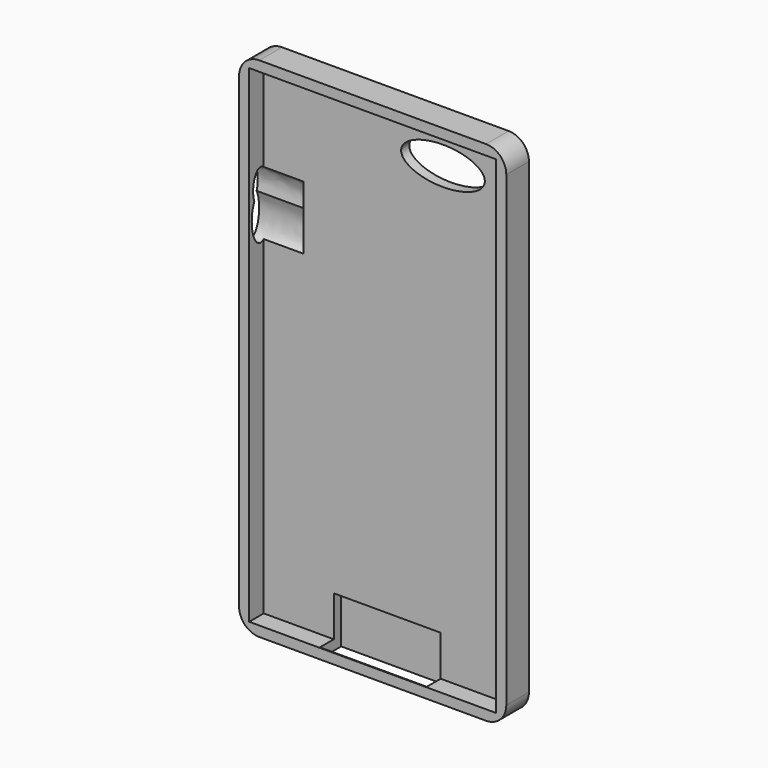
from build123d import *

# Parameters (mm, degrees)
F0_W      = 67.0393481851
F0_H      = 127.374753356
F1_DEPTH  = 3.55
F2_T      = -2.54
F3_R      = 5.08
F6_DEPTH  = 12.7
F7_W      = 26.815738529
F7_H      = 6.7039346322
F8_DEPTH  = 12.7
F10_DEPTH = 12.5
F12_DEPTH = 12.5


with BuildPart() as f1:
    # F0 (on Front) → F1 (new body, symmetric)
    with BuildSketch(Plane.XZ):
        Rectangle(F0_W, F0_H)
    extrude(amount=F1_DEPTH, both=True)

    # F2
    f2_openings = [f1.faces().sort_by_distance(p)[0] for p in [
        (0, -3.55, 0),
    ]]
    offset(amount=F2_T, openings=f2_openings)

    # F3
    f3_edges = [f1.edges().sort_by_distance(p)[0] for p in [
        (33.519674, 0, -63.687377),
        (-33.519674, 0, -63.687377),
        (-33.519674, 0, 63.687377),
        (33.519674, 0, 63.687377),
    ]]
    fillet(f3_edges, radius=F3_R)

    # F5 (on face) → F6 (cut, symmetric)
    with BuildSketch(Plane.XZ.offset(-1.01)):
        with BuildLine():
            add(Edge.make_bspline(
                [(24.4839340448, 52.3198395967), (24.4839340448, 60.4477757444), (8.7442607619, 56.3838076706), (-6.9954125211, 52.3198395967), (8.7442607619, 48.2558715229), (24.4839340448, 44.1919034491), (24.4839340448, 52.3198395967)],
                knots=[0, 0, 0, 2.0943951024, 2.0943951024, 4.1887902048, 4.1887902048, 6.2831853072, 6.2831853072, 6.2831853072], degree=2, weights=[1, 0.5, 1, 0.5, 1, 0.5, 1]))
        make_face()
    extrude(amount=F6_DEPTH, both=True, mode=Mode.SUBTRACT)

    # F7 (on face) → F8 (cut, symmetric)
    with BuildSketch(Plane(origin=(0, 0, -63.687376678), x_dir=(1, 0, 0), z_dir=(0, 0, -1))):
        Rectangle(F7_W, F7_H)
    extrude(amount=F8_DEPTH, both=True, mode=Mode.SUBTRACT)

    # F9 (on face) → F10 (cut, symmetric)
    with BuildSketch(Plane(origin=(-33.5196740925, 0, 0), x_dir=(0, -1, 0), z_dir=(-1, 0, 0))):
        with BuildLine():
            add(Edge.make_bspline(
                [(0, 28.9168681979), (4.0015380048, 28.9168681979), (2.0007690024, 35.6668681979), (0, 42.4168681979), (-2.0007690024, 35.6668681979), (-4.0015380048, 28.9168681979), (0, 28.9168681979)],
                knots=[0, 0, 0, 2.0943951024, 2.0943951024, 4.1887902048, 4.1887902048, 6.2831853072, 6.2831853072, 6.2831853072], degree=2, weights=[1, 0.5, 1, 0.5, 1, 0.5, 1]))
        make_face()
    extrude(amount=F10_DEPTH, both=True, mode=Mode.SUBTRACT)

    # F11 (on face) → F12 (cut, symmetric)
    with BuildSketch(Plane(origin=(-33.5196740925, 0, 0), x_dir=(0, -1, 0), z_dir=(-1, 0, 0))):
        with BuildLine():
            add(Edge.make_bspline(
                [(0, 28.9168681979), (1.2599189299, 28.9168681979), (1.9422093652, 30.9799598491)],
                knots=[0, 0, 0, 1.0030560238, 1.0030560238, 1.0030560238], degree=2, weights=[1, 0.7605380134, 0.7504441989]))
            add(Edge.make_bspline(
                [(1.9422093652, 30.9799598491), (0, 35.0307743016), (-1.9422093652, 30.9799598491)],
                knots=[2.3582521763, 2.3582521763, 2.3582521763, 3.9249331309, 3.9249331309, 3.9249331309], degree=2, weights=[1, 0.708560287, 1]))
            add(Edge.make_bspline(
                [(-1.9422093652, 30.9799598491), (-1.2599189299, 28.9168681979), (0, 28.9168681979)],
                knots=[5.2801292834, 5.2801292834, 5.2801292834, 6.2831853072, 6.2831853072, 6.2831853072], degree=2, weights=[0.7504441989, 0.7605380134, 1]))
        make_face()
        with BuildLine():
            add(Edge.make_bspline(
                [(-1.9422093652, 30.9799598491), (-6.6641891215, 21.131452173), (0, 21.131452173)],
                knots=[3.9249331309, 3.9249331309, 3.9249331309, 6.2831853072, 6.2831853072, 6.2831853072], degree=2, weights=[1, 0.381732703, 1]))
            add(Edge.make_bspline(
                [(0, 21.131452173), (6.6641891215, 21.131452173), (1.9422093652, 30.9799598491)],
                knots=[0, 0, 0, 2.3582521763, 2.3582521763, 2.3582521763], degree=2, weights=[1, 0.381732703, 1]))
            add(Edge.make_bspline(
                [(0, 28.9168681979), (1.2599189299, 28.9168681979), (1.9422093652, 30.9799598491)],
                knots=[0, 0, 0, 1.0030560238, 1.0030560238, 1.0030560238], degree=2, weights=[1, 0.7605380134, 0.7504441989]))
            add(Edge.make_bspline(
                [(-1.9422093652, 30.9799598491), (-1.2599189299, 28.9168681979), (0, 28.9168681979)],
                knots=[5.2801292834, 5.2801292834, 5.2801292834, 6.2831853072, 6.2831853072, 6.2831853072], degree=2, weights=[0.7504441989, 0.7605380134, 1]))
        make_face()
    extrude(amount=F12_DEPTH, both=True, mode=Mode.SUBTRACT)


solid = f1.part
